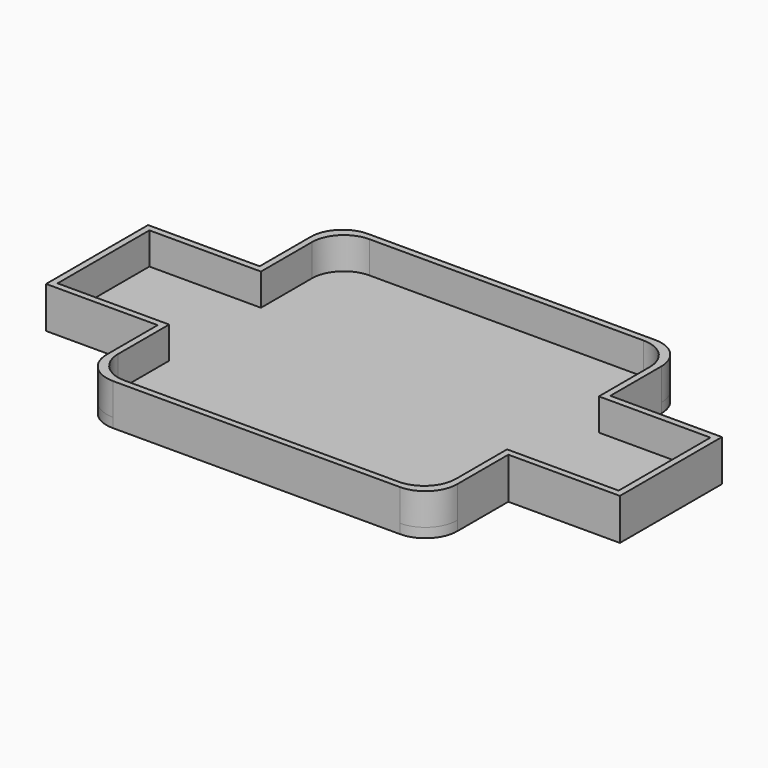
from build123d import *

# Parameters (mm, degrees)
F1_DEPTH = 3
F2_R     = 10
F4_DEPTH = 10


with BuildPart() as f1:
    # F0 (on Top) → F1 (new body)
    with BuildSketch(Plane.XY):
        Polygon((55, 50), (-55, 50), (-55, 20), (-90, 20), (-90, -20), (-55, -20), (-55, -50), (55, -50), (55, -20), (90, -20), (90, 20), (55, 20), align=None)
    extrude(amount=F1_DEPTH)

    # F2
    f2_edges = [f1.edges().sort_by_distance(p)[0] for p in [
        (-55, 50, 1.5),
        (55, 50, 1.5),
        (55, -50, 1.5),
        (-55, -50, 1.5),
    ]]
    fillet(f2_edges, radius=F2_R)

    # F3 (on face) → F4 (join)
    with BuildSketch(Plane.XY.offset(3)):
        Polygon((-55, 20), (-90, 20), (-90, -20), (-55, -20), (-55, -18), (-88, -18), (-88, 18), (-55, 18), align=None)
        with BuildLine():
            Line((-55, 40), (-55, 20))
            Line((-55, 20), (-55, 18))
            Line((-55, 18), (-53, 18))
            Line((-53, 18), (-53, 38))
            ThreePointArc((-53, 38), (-50.071068, 45.071068), (-43, 48))
            Line((-43, 48), (43, 48))
            ThreePointArc((43, 48), (50.071068, 45.071068), (53, 38))
            Line((53, 38), (53, 18))
            Line((53, 18), (55, 18))
            Line((55, 18), (55, 20))
            Line((55, 20), (55, 40))
            ThreePointArc((55, 40), (52.071068, 47.071068), (45, 50))
            Line((45, 50), (-45, 50))
            ThreePointArc((-45, 50), (-52.071068, 47.071068), (-55, 40))
        make_face()
        with BuildLine():
            Line((-55, -18), (-55, -20))
            Line((-55, -20), (-55, -40))
            ThreePointArc((-55, -40), (-52.071068, -47.071068), (-45, -50))
            Line((-45, -50), (45, -50))
            ThreePointArc((45, -50), (52.071068, -47.071068), (55, -40))
            Line((55, -40), (55, -20))
            Line((55, -20), (55, -18))
            Line((55, -18), (53, -18))
            Line((53, -18), (53, -38))
            ThreePointArc((53, -38), (50.071068, -45.071068), (43, -48))
            Line((43, -48), (-43, -48))
            ThreePointArc((-43, -48), (-50.071068, -45.071068), (-53, -38))
            Line((-53, -38), (-53, -18))
            Line((-53, -18), (-55, -18))
        make_face()
        Polygon((90, 20), (55, 20), (55, 18), (88, 18), (88, -18), (55, -18), (55, -20), (90, -20), align=None)
    extrude(amount=F4_DEPTH)


solid = f1.part
